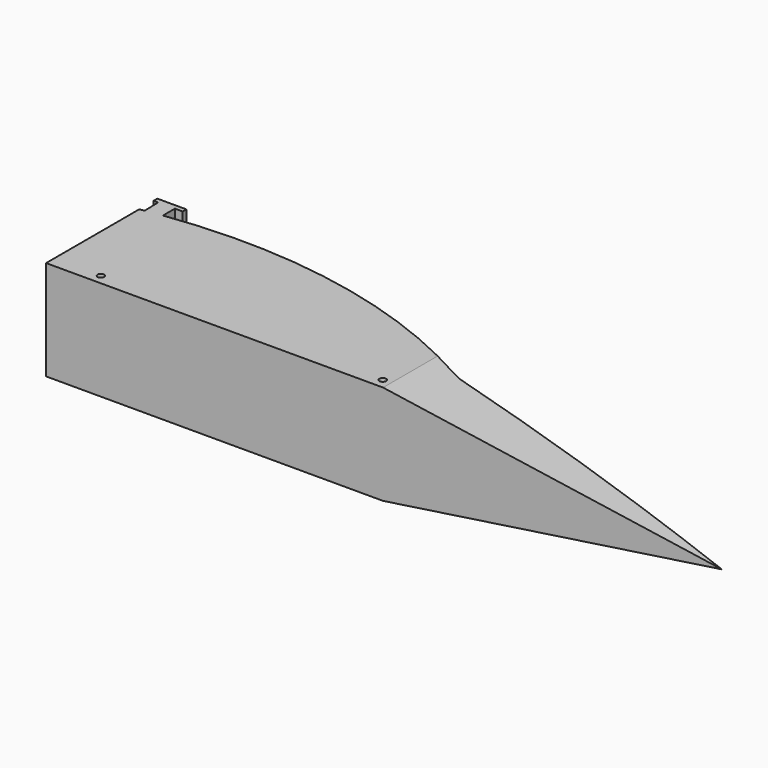
from build123d import *

# Parameters (mm, degrees)
F1_DEPTH  = 30
F2_R      = 1
F2_R_2    = 0.0533765033
F3_DEPTH  = 30.001
F4_R      = 10
F5_DEPTH  = 64
F8_DEPTH  = 30
F9_W      = 5.2633735355
F9_H      = 23.3362393919
F10_DEPTH = 25
F11_W     = 8.7402192639
F11_H     = 1.3938806951
F12_DEPTH = 30
F13_DEPTH = 41.9052980466


with BuildPart() as f1:
    # F0 (on Top) → F1 (new body)
    with BuildSketch(Plane.XY):
        with BuildLine():
            Line((-101.3173758984, 35), (-101.3173758984, 0))
            Line((-101.3173758984, 0), (101.8826241016, 0))
            ThreePointArc((101.8826241016, 0), (56.0897429361, 9.5394690074), (9.8705293288, 16.7348653069))
            ThreePointArc((9.8705293288, 16.7348653069), (4.9096577711, 18.5604467569), (0, 20.5195932071))
            ThreePointArc((0, 20.5195932071), (-49.491894157, 35.9236891605), (-101.3173758984, 35))
        make_face()
    extrude(amount=F1_DEPTH)

    # F2 (on Top) → F3 (cut, through all)
    with BuildSketch(Plane.XY):
        with Locations((-87.232263687, 3)):
            Circle(F2_R)
        with Locations((60.264059, 3)):
            Circle(F2_R_2)
        with Locations((-2.4870128836, 3)):
            Circle(F2_R)
    extrude(amount=F3_DEPTH, mode=Mode.SUBTRACT)

    # F4 (on face) → F5 (cut)
    with BuildSketch(Plane(origin=(-101.3173758984, 0, 0), x_dir=(0, -1, 0), z_dir=(-1, 0, 0))):
        with Locations((-16.8194788357, 14.8095988691)):
            Circle(F4_R)
    extrude(amount=-F5_DEPTH, mode=Mode.SUBTRACT)

    # F7 (on face) → F8 (join)
    with BuildSketch(Plane.XY.offset(30)):
        with BuildLine():
            Line((-100.0109697279, 40.5104173515), (-99.8982514965, 35.248250918))
            add(Edge.make_bspline(
                [(-99.8982514965, 35.248250918), (-99.1698783521, 35.2086363528), (-95.596989963, 35.7161657204), (-94.9947075015, 36.0070484152)],
                knots=[0, 0, 0, 0, 4.9619066248, 4.9619066248, 4.9619066248, 4.9619066248], degree=3))
            Line((-94.9947075015, 36.0070484152), (-94.9947075015, 40.5104173515))
            Line((-94.9947075015, 40.5104173515), (-100.0109697279, 40.5104173515))
        make_face()
    extrude(amount=-F8_DEPTH)

    # F9 (on face) → F10 (cut)
    with BuildSketch(Plane(origin=(-99.0977465794, -2.122723191, 0), x_dir=(0.0214155865, -0.99977066, 0), z_dir=(-0.99977066, -0.0214155865, 0))):
        with Locations((-40.0112335009, 14.7758348612)):
            Rectangle(F9_W, F9_H)
    extrude(amount=-F10_DEPTH, mode=Mode.SUBTRACT)

    # F11 (on face) → F12 (join)
    with BuildSketch(Plane.XY.offset(30)):
        with Locations((-97.0257730341, 41.2073576991)):
            Rectangle(F11_W, F11_H)
    extrude(amount=-F12_DEPTH)

    # F6 (on face) → F13 (cut, through all)
    with BuildSketch(Plane.XZ):
        Polygon((0, 30), (101.8826241016, 15), (101.8826241016, 30), align=None)
        Polygon((101.8826241016, 15), (0, 0), (101.8826241016, 0), align=None)
    extrude(amount=-F13_DEPTH, mode=Mode.SUBTRACT)


solid = f1.part
